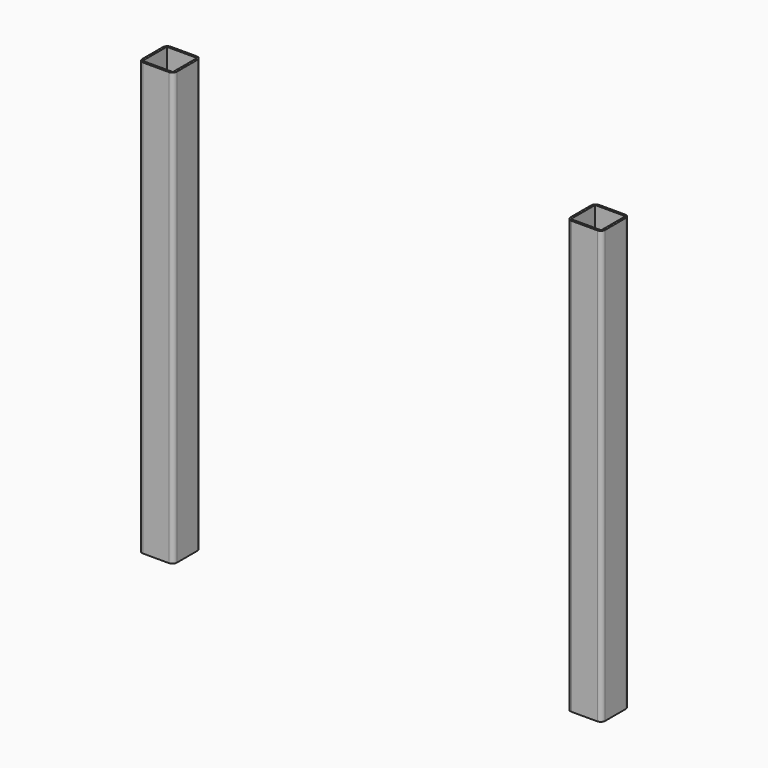
from build123d import *

# Parameters (mm, degrees)
F0_W     = 70
F0_H     = 70
F1_DEPTH = 1000


with BuildPart() as f1:
    # F0 (on Top) → F1 (new body)
    with BuildSketch(Plane.XY):
        with BuildLine():
            Line((-470, 315), (-530, 315))
            ThreePointArc((-530, 315), (-537.071068, 312.071068), (-540, 305))
            Line((-540, 305), (-540, 245))
            ThreePointArc((-540, 245), (-537.071068, 237.928932), (-530, 235))
            Line((-530, 235), (-470, 235))
            ThreePointArc((-470, 235), (-462.928932, 237.928932), (-460, 245))
            Line((-460, 245), (-460, 305))
            ThreePointArc((-460, 305), (-462.928932, 312.071068), (-470, 315))
        make_face()
        with Locations((-500, 275)):
            Rectangle(F0_W, F0_H, mode=Mode.SUBTRACT)
        with BuildLine():
            Line((520.999975, 314.999999), (460.999975, 314.999999))
            ThreePointArc((460.999975, 314.999999), (453.928907, 312.071067), (450.999975, 304.999999))
            Line((450.999975, 304.999999), (450.999975, 244.999999))
            ThreePointArc((450.999975, 244.999999), (453.928907, 237.928932), (460.999975, 234.999999))
            Line((460.999975, 234.999999), (520.999975, 234.999999))
            ThreePointArc((520.999975, 234.999999), (528.071043, 237.928932), (530.999975, 244.999999))
            Line((530.999975, 244.999999), (530.999975, 304.999999))
            ThreePointArc((530.999975, 304.999999), (528.071043, 312.071067), (520.999975, 314.999999))
        make_face()
        with Locations((490.999975, 274.999999)):
            Rectangle(F0_W, F0_H, mode=Mode.SUBTRACT)
    extrude(amount=-F1_DEPTH)


solid = f1.part
